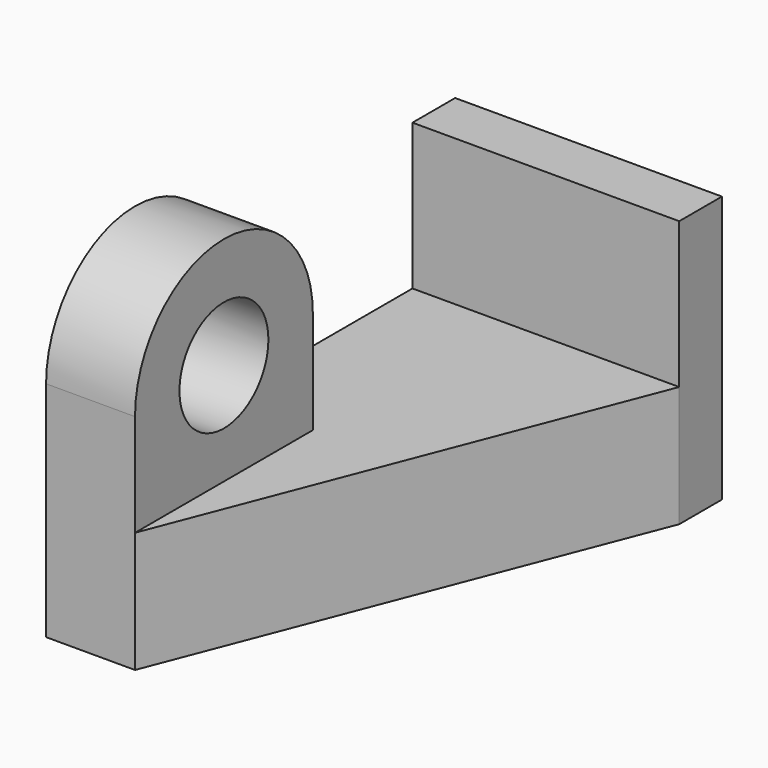
from build123d import *

# Parameters (mm, degrees)
F0_W      = 1524
F0_H      = 1524
F1_DEPTH  = 304.8
F2_W      = 1524
F2_H      = 690.0749206543
F3_DEPTH  = 2616.2
F4_W      = 508
F4_H      = 1270
F5_DEPTH  = 584.2
F7_DEPTH  = 508
F10_R     = 317.5
F11_DEPTH = 812.8
F12_DEPTH = 1864.36


with BuildPart() as f1:
    # F0 (on Front) → F1 (new body)
    with BuildSketch(Plane.XZ):
        with Locations((-762, 762)):
            Rectangle(F0_W, F0_H)
    extrude(amount=F1_DEPTH)

    # F2 (on face) → F3 (join)
    with BuildSketch(Plane.XZ.offset(304.8)):
        with Locations((-762, 345.0374603271)):
            Rectangle(F2_W, F2_H)
    extrude(amount=F3_DEPTH)

    # F4 (on face) → F5 (join)
    with BuildSketch(Plane.XY.offset(690.0749206543)):
        with Locations((-1270, -2286)):
            Rectangle(F4_W, F4_H)
    extrude(amount=F5_DEPTH)

    # F6 (on face) → F7 (join)
    with BuildSketch(Plane.YZ.offset(-1016)):
        with BuildLine():
            Line((-2921, 1274.2749206543), (-1651, 1274.2749206543))
            ThreePointArc((-1651, 1274.2749206543), (-2286, 1909.2749206543), (-2921, 1274.2749206543))
        make_face()
    extrude(amount=-F7_DEPTH)

    # F10 (on face) → F11 (cut)
    with BuildSketch(Plane.YZ.offset(-1016)):
        with Locations((-2286, 1274.2749206543)):
            Circle(F10_R)
    extrude(amount=-F11_DEPTH, mode=Mode.SUBTRACT)

    # F9 (on face) → F12 (cut)
    with BuildSketch(Plane.XY.offset(690.0749206543)):
        Polygon((0, -304.8), (-1016, -2921), (0, -2921), align=None)
    extrude(amount=-F12_DEPTH, mode=Mode.SUBTRACT)


solid = f1.part
